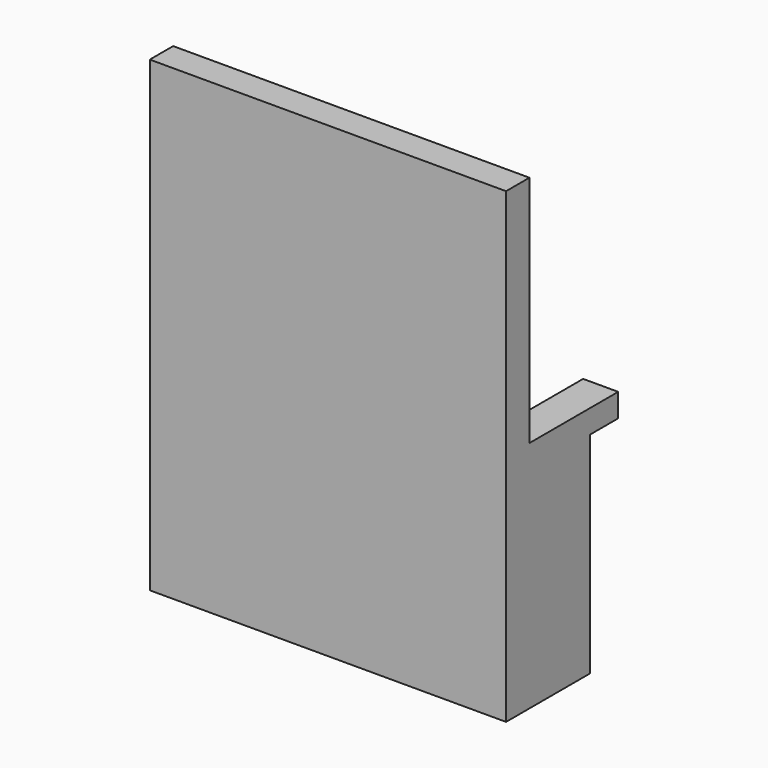
from build123d import *

# Parameters (mm, degrees)
SKETCH_W     = 5
SKETCH_H     = 80
PAD_DEPTH    = 61
PAD001_DEPTH = 61
SKETCH002_W  = 49
SKETCH002_H  = 101.034886
POCKET_DEPTH = 19


with BuildPart() as part:
    # Sketch (on YZ_Plane of Origin) → Pad (new body)
    with BuildSketch(Plane.YZ):
        with Locations((-2.5, 40)):
            Rectangle(SKETCH_W, SKETCH_H)
    extrude(amount=PAD_DEPTH)

    # Sketch001 (on Face5 of Pad) → Pad001 (join)
    with BuildSketch(Plane(origin=(0, 0, 0), x_dir=(0, -1, 0), z_dir=(-1, 0, 0))):
        Polygon((0, 0), (0, 36), (0, 40), (-19, 40), (-19, 36), (-13, 36), (-13, 0), align=None)
    extrude(amount=-PAD001_DEPTH)

    # Sketch002 (on Face1 of Pad001) → Pocket (cut)
    with BuildSketch(Plane(origin=(0, 0, 0), x_dir=(-1, 0, 0), z_dir=(0, 1, 0))):
        with Locations((-30.493867, 45)):
            Rectangle(SKETCH002_W, SKETCH002_H)
    extrude(amount=POCKET_DEPTH, mode=Mode.SUBTRACT)


solid = part.part
